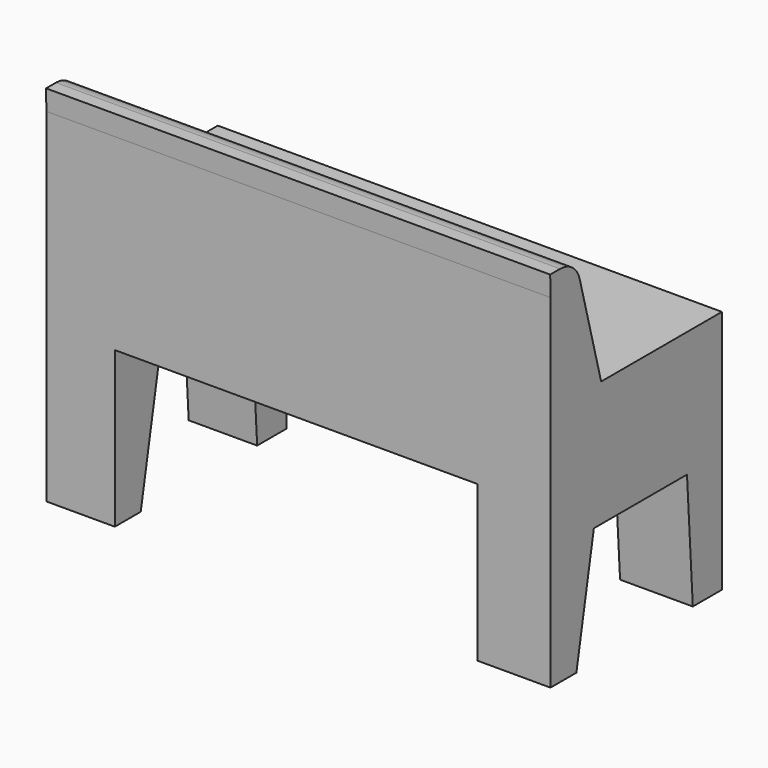
from build123d import *

# Parameters (mm, degrees)
F1_DEPTH = 101.6
F2_W     = 73.136294
F2_H     = 31.528215
F3_DEPTH = 43.25955
F4_R     = 5.08


with BuildPart() as f1:
    # F0 (on Right) → F1 (new body)
    with BuildSketch(Plane.YZ):
        Polygon((-66.300608, 46.098899), (-66.231251, 41.988105), (-66.231251, -27.220687), (-59.701849, -27.220687), (-55.302672, -3.391821), (-31.840406, -3.391821), (-30.374017, -27.403988), (-23.042059, -27.403988), (-23.042059, -3.025223), (-23.042059, 21.903437), (-53.469684, 21.903437), (-59.885152, 46.098899), align=None)
    extrude(amount=F1_DEPTH)

    # F2 (on face) → F3 (cut, through all)
    with BuildSketch(Plane(origin=(0, -23.042059, 0), x_dir=(-1, 0, 0), z_dir=(0, 1, 0))):
        with Locations((-50.367939, -11.639881)):
            Rectangle(F2_W, F2_H)
    extrude(amount=-F3_DEPTH, mode=Mode.SUBTRACT)

    # F4
    f4_edges = [f1.edges().sort_by_distance(p)[0] for p in [
        (50.8, -59.885152, 46.098899),
    ]]
    fillet(f4_edges, radius=F4_R)


solid = f1.part
